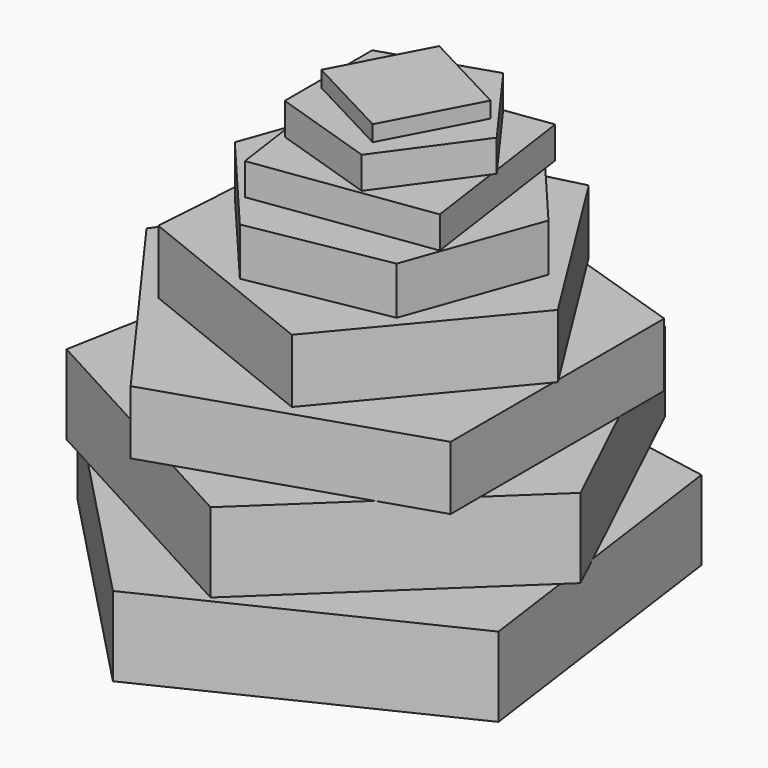
from build123d import *

# Parameters (mm, degrees)
F1_DEPTH  = 12.7
F3_DEPTH  = 12.7
F5_DEPTH  = 10.16
F7_DEPTH  = 10.16
F9_DEPTH  = 7.62
F11_DEPTH = 5.08
F13_DEPTH = 5.08
F15_DEPTH = 2.54


with BuildPart() as f1:
    # F0 (on Top) → F1 (new body)
    with BuildSketch(Plane.XY):
        Polygon((-44.836005, -10.735053), (-0.401864, 10.735053), (-7.090244, 59.62906), (-55.658031, 68.377112), (-78.986194, 24.889698), align=None)
    extrude(amount=F1_DEPTH)


with BuildPart() as f3:
    # F2 (on face) → F3 (new body)
    with BuildSketch(Plane.XY.offset(12.7)):
        Polygon((-66.451321, 63.145851), (-74.906267, 17.606181), (-34.208189, -4.507483), (-0.600448, 27.365191), (-20.527799, 69.177251), align=None)
    extrude(amount=F3_DEPTH)

    # F4 (on face) → F5 (join)
    with BuildSketch(Plane.XY.offset(25.4)):
        Polygon((-9.669998, 12.759262), (-9.669998, 55.426596), (-50.249044, 68.611528), (-75.328274, 34.092929), (-50.249044, -0.425669), align=None)
    extrude(amount=F5_DEPTH)


with BuildPart() as f7:
    # F6 (on face) → F7 (new body)
    with BuildSketch(Plane.XY.offset(35.56)):
        Polygon((-60.156629, 54.141154), (-62.447496, 20.35092), (-31.01899, 7.730419), (-9.304238, 33.720755), (-27.312289, 62.404167), align=None)
    extrude(amount=F7_DEPTH)


with BuildPart() as f9:
    # F8 (on face) → F9 (new body)
    with BuildSketch(Plane.XY.offset(45.72)):
        Polygon((-52.423603, 53.428594), (-59.93294, 32.493476), (-45.557265, 15.522641), (-23.672253, 19.486923), (-16.162917, 40.422041), (-30.538591, 57.392876), align=None)
    extrude(amount=F9_DEPTH)


with BuildPart() as f11:
    # F10 (on face) → F11 (new body)
    with BuildSketch(Plane.XY.offset(53.34)):
        Polygon((-53.616375, 49.661379), (-49.674995, 21.677587), (-21.691203, 25.618967), (-25.632583, 53.602759), align=None)
    extrude(amount=F11_DEPTH)


with BuildPart() as f13:
    # F12 (on face) → F13 (new body)
    with BuildSketch(Plane.XY.offset(58.42)):
        Polygon((-49.872067, 47.359436), (-49.872067, 29.891596), (-33.259163, 24.493736), (-22.991824, 38.625516), (-33.259163, 52.757296), align=None)
    extrude(amount=F13_DEPTH)


with BuildPart() as f15:
    # F14 (on face) → F15 (new body)
    with BuildSketch(Plane.XY.offset(63.5)):
        Polygon((-41.003965, 49.661379), (-48.492581, 35.472412), (-34.303613, 27.983796), (-26.814997, 42.172763), align=None)
    extrude(amount=F15_DEPTH)


solid = Compound([f1.part, f3.part, f7.part, f9.part, f11.part, f13.part, f15.part])
